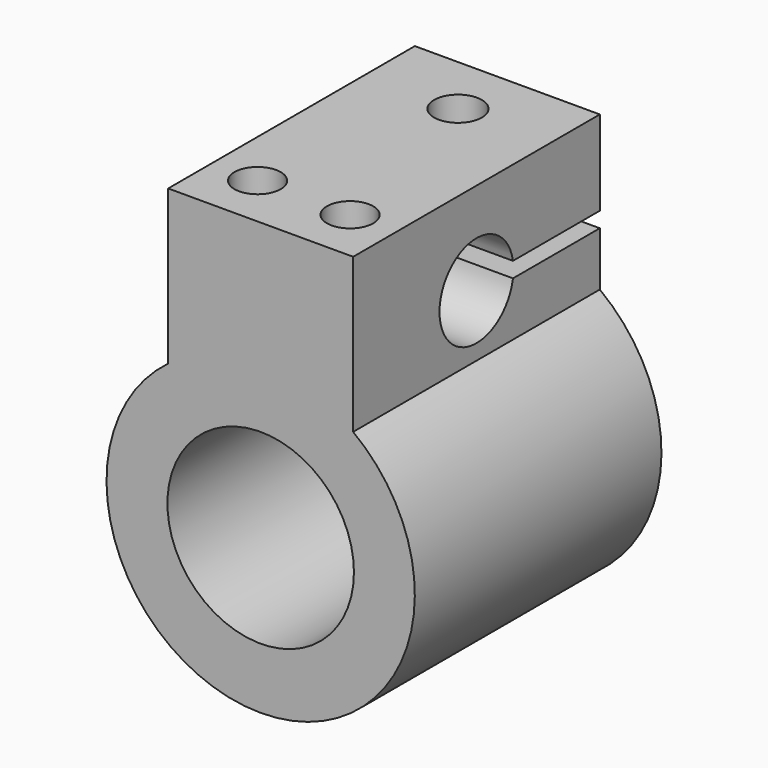
from build123d import *

# Parameters (mm, degrees)
F0_R      = 6.05
F1_DEPTH  = 20
F3_DEPTH  = 25
F4_W      = 5.75
F4_H      = 2.75
F5_DEPTH  = 7.5
F6_R      = 1.55
F7_DEPTH  = 10
F9_R      = 1.5
F10_DEPTH = 10


with BuildPart() as f1:
    # F0 (on Front) → F1 (new body)
    with BuildSketch(Plane.XZ):
        with BuildLine():
            Line((-6, 18), (-6, 8))
            ThreePointArc((-6, 8), (0, -10), (6, 8))
            Line((6, 8), (6, 18))
            Line((6, 18), (-6, 18))
        make_face()
        Circle(F0_R, mode=Mode.SUBTRACT)
    extrude(amount=F1_DEPTH)

    # F2 (on face) → F3 (cut)
    with BuildSketch(Plane.YZ.offset(6)):
        with BuildLine():
            Line((0, 12.5), (-7.04196, 12.5))
            ThreePointArc((-7.04196, 12.5), (-13, 12), (-7.04196, 11.5))
            Line((-7.04196, 11.5), (0, 11.5))
            Line((0, 11.5), (0, 12.5))
        make_face()
    extrude(amount=-F3_DEPTH, mode=Mode.SUBTRACT)

    # F4 (on face) → F5 (cut)
    with BuildSketch(Plane(origin=(0, 0, 0), x_dir=(-1, 0, 0), z_dir=(0, 1, 0))):
        with Locations((0, 8.625)):
            Rectangle(F4_W, F4_H)
    extrude(amount=-F5_DEPTH, mode=Mode.SUBTRACT)

    # F6 (on face) → F7 (cut)
    with BuildSketch(Plane.XY.offset(18)):
        with Locations((0, -4)):
            Circle(F6_R)
    extrude(amount=-F7_DEPTH, mode=Mode.SUBTRACT)

    # F9 (on face) → F10 (cut)
    with BuildSketch(Plane.XY.offset(18)):
        with Locations((-3, -16.5)):
            Circle(F9_R)
        with Locations((3, -16.5)):
            Circle(F9_R)
    extrude(amount=-F10_DEPTH, mode=Mode.SUBTRACT)


solid = f1.part
